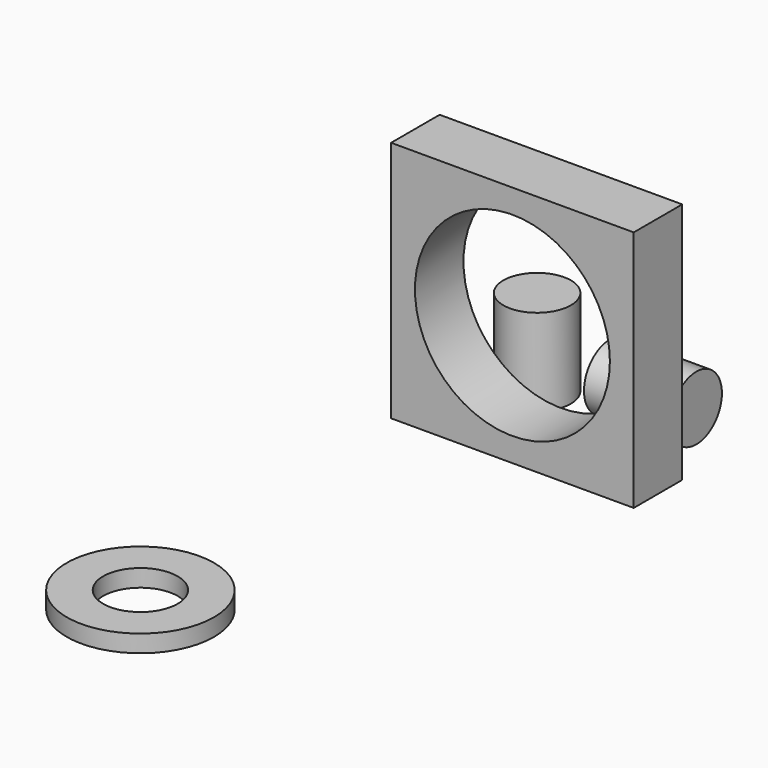
from build123d import *

# Parameters (mm, degrees)
F0_R     = 3.9
F1_DEPTH = 10
F2_R     = 3.7
F3_DEPTH = 10
F5_W     = 28
F5_H     = 28
F5_R     = 11.25
F6_DEPTH = 7
F7_R     = 8.5
F7_R_2   = 4.3
F8_DEPTH = 2


with BuildPart() as f1:
    # F0 (on Top) → F1 (new body)
    with BuildSketch(Plane.XY):
        with Locations((-43.691348, 12.349758)):
            Circle(F0_R)
    extrude(amount=F1_DEPTH)


with BuildPart() as f3:
    # F2 (on Right) → F3 (new body)
    with BuildSketch(Plane.YZ):
        with Locations((29.196753, 3.7)):
            Circle(F2_R)
    extrude(amount=F3_DEPTH)


with BuildPart() as f3_1:
    # F4: moved
    add(f3.part.moved(Location((-36, -16, 0))))


with BuildPart() as f6:
    # F5 (on Front) → F6 (new body)
    with BuildSketch(Plane.XZ):
        with Locations((-36.662634, 14)):
            Rectangle(F5_W, F5_H)
        with Locations((-36.662634, 14)):
            Circle(F5_R, mode=Mode.SUBTRACT)
    extrude(amount=-F6_DEPTH)


with BuildPart() as f8:
    # F7 (on Top) → F8 (new body)
    with BuildSketch(Plane.XY):
        with Locations((-44.972077, -43.285619)):
            Circle(F7_R)
        with Locations((-44.972077, -43.285619)):
            Circle(F7_R_2, mode=Mode.SUBTRACT)
    extrude(amount=F8_DEPTH)


solid = Compound([f1.part, f3_1.part, f6.part, f8.part])
